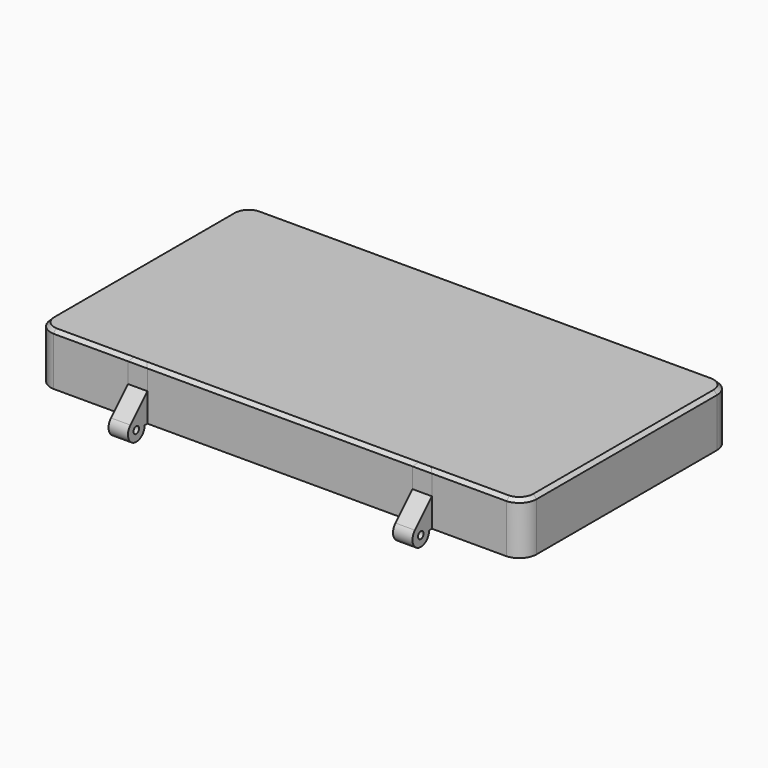
from build123d import *

# Parameters (mm, degrees)
PAD002_DEPTH         = 15
POCKET002_DEPTH      = 14
SKETCH006_R          = 1
PAD003_DEPTH         = 140
SKETCH007_W          = 26.2
SKETCH007_H          = 10
SKETCH007_W_2        = 76.4
POCKET003_DEPTH      = 18.001
SKETCH011_W          = 15
SKETCH011_H          = 11
PAD005_DEPTH         = 2
POCKET006_DEPTH      = 140.001
POCKET006_DEPTH_BACK = 0.001
CHAMFER_SIZE         = 1


with BuildPart() as part:
    # Sketch004 → Pad002 (new body)
    with BuildSketch(Plane.XY):
        with BuildLine():
            Line((-70, 32.5), (-70, -32.5))
            ThreePointArc((-70, -32.5), (-68.535534, -36.035534), (-65, -37.5))
            Line((-65, -37.5), (65, -37.5))
            ThreePointArc((65, -37.5), (68.535534, -36.035534), (70, -32.5))
            Line((70, -32.5), (70, 32.5))
            ThreePointArc((70, 32.5), (68.535534, 36.035534), (65, 37.5))
            Line((65, 37.5), (-65, 37.5))
            ThreePointArc((-65, 37.5), (-68.535534, 36.035534), (-70, 32.5))
        make_face()
    extrude(amount=PAD002_DEPTH)

    # Sketch005 (on Face9 of Pad002) → Pocket002 (cut)
    with BuildSketch(Plane(origin=(0, 0, 0), x_dir=(1, 0, 0), z_dir=(0, 0, -1))):
        with BuildLine():
            Line((-69.5, 32.5), (-69.5, -32.5))
            ThreePointArc((-69.5, -32.5), (-68.181981, -35.681981), (-65, -37))
            Line((-65, -37), (65, -37))
            ThreePointArc((65, -37), (68.181981, -35.681981), (69.5, -32.5))
            Line((69.5, -32.5), (69.5, 32.5))
            ThreePointArc((69.5, 32.5), (68.181981, 35.681981), (65, 37))
            Line((65, 37), (-65, 37))
            ThreePointArc((-65, 37), (-68.181981, 35.681981), (-69.5, 32.5))
        make_face()
    extrude(amount=-POCKET002_DEPTH, mode=Mode.SUBTRACT)

    # Sketch006 (on Face10 of Pocket002) → Pad003 (join)
    with BuildSketch(Plane.YZ.offset(70)):
        with BuildLine():
            ThreePointArc((-43.62132, 2.12132), (-42.64805, -2.771639), (-38.5, 0))
            Line((-38.5, 0), (-37.5, 0))
            Line((-37.5, 0), (-37.5, 8.242641))
            Line((-43.62132, 2.12132), (-37.5, 8.242641))
        make_face()
        with Locations((-41.5, 0)):
            Circle(SKETCH006_R, mode=Mode.SUBTRACT)
    extrude(amount=-PAD003_DEPTH)

    # Sketch007 (on Face4 of Pad003) → Pocket003 (cut, through all)
    with BuildSketch(Plane.XY.offset(15)):
        with Locations((56.9, -42.49)):
            Rectangle(SKETCH007_W, SKETCH007_H)
        with Locations((0, -42.49)):
            Rectangle(SKETCH007_W_2, SKETCH007_H)
        with Locations((-56.9, -42.49)):
            Rectangle(SKETCH007_W, SKETCH007_H)
    extrude(amount=-POCKET003_DEPTH, mode=Mode.SUBTRACT)

    # Sketch011 (on Face6 of Pocket003) → Pad005 (join)
    with BuildSketch(Plane(origin=(0, 37.5, 0), x_dir=(-1, 0, 0), z_dir=(0, 1, 0))):
        with Locations((32.5, -1)):
            Rectangle(SKETCH011_W, SKETCH011_H)
        with Locations((-32.5, -1)):
            Rectangle(SKETCH011_W, SKETCH011_H)
    extrude(amount=PAD005_DEPTH)

    # Sketch012 (on Face1 of Pad005) → Pocket006 (cut, two sides)
    with BuildSketch(Plane(origin=(-70, 0, 0), x_dir=(0, -1, 0), z_dir=(-1, 0, 0))) as pocket006_sk:
        Polygon((-38.5, -6.5), (-39.5, -5.5), (-39.5, -6.5), align=None)
        Polygon((-37.5, 4.5), (-39.5, 2.5), (-39.5, 4.5), align=None)
        Polygon((-37.5, 1), (-38.7, -0.2), (-38.7, -3.5), (-37.5, -4.7), align=None)
        Polygon((-37.5, -5.633975), (-38, -6.5), (-37.5, -6.5), align=None)
    extrude(amount=-POCKET006_DEPTH, mode=Mode.SUBTRACT)
    extrude(pocket006_sk.sketch, amount=POCKET006_DEPTH_BACK, mode=Mode.SUBTRACT)

    # Chamfer
    chamfer_edges = [part.edges().sort_by_distance(p)[0] for p in [
        (-68.535534, 36.035534, 15),
        (0, 37.5, 15),
        (68.535534, 36.035534, 15),
        (70, 0, 15),
        (68.645569, -35.921962, 15),
        (54.558035, -37.49, 15),
        (43.8, -37.495, 15),
        (41, -37.5, 15),
        (38.2, -37.495, 15),
        (0, -37.49, 15),
        (-38.2, -37.495, 15),
        (-41, -37.5, 15),
        (-43.8, -37.495, 15),
        (-54.558035, -37.49, 15),
        (-68.645569, -35.921962, 15),
        (-70, 0, 15),
    ]]
    chamfer(chamfer_edges, length=CHAMFER_SIZE)


solid = part.part
